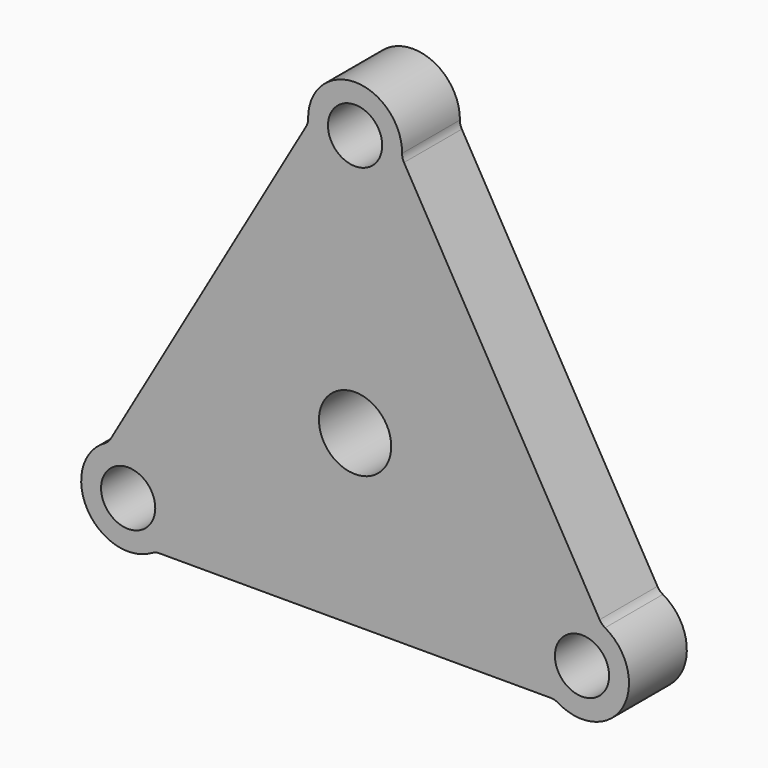
from build123d import *

# Parameters (mm, degrees)
F0_R     = 4.7625
F0_R_2   = 6.35
F1_DEPTH = 12.7


with BuildPart() as f1:
    # F0 (on Front) → F1 (new body)
    with BuildSketch(Plane.XZ):
        with BuildLine():
            ThreePointArc((8.594672, 44.651487), (8.337428, 45.27728), (8.254523, 45.948784))
            ThreePointArc((8.254523, 45.948784), (0, 54.2925), (-8.254523, 45.948784))
            ThreePointArc((-8.254523, 45.948784), (-8.337428, 45.27728), (-8.594672, 44.651487))
            Line((-8.594672, 44.651487), (-42.966658, -14.882539))
            ThreePointArc((-42.966658, -14.882539), (-43.379988, -15.418216), (-43.920076, -15.825765))
            ThreePointArc((-43.920076, -15.825765), (-47.018684, -27.14625), (-35.665553, -30.123019))
            ThreePointArc((-35.665553, -30.123019), (-35.042561, -29.859064), (-34.371986, -29.768948))
            Line((-34.371986, -29.768948), (34.371986, -29.768948))
            ThreePointArc((34.371986, -29.768948), (35.042561, -29.859064), (35.665553, -30.123019))
            ThreePointArc((35.665553, -30.123019), (47.018684, -27.14625), (43.920076, -15.825765))
            ThreePointArc((43.920076, -15.825765), (43.379988, -15.418216), (42.966658, -14.882539))
            Line((42.966658, -14.882539), (8.594672, 44.651487))
        make_face()
        with Locations((-39.869645, -23.01875)):
            Circle(F0_R, mode=Mode.SUBTRACT)
        with Locations((39.869645, -23.01875)):
            Circle(F0_R, mode=Mode.SUBTRACT)
        Circle(F0_R_2, mode=Mode.SUBTRACT)
        with Locations((0, 46.0375)):
            Circle(F0_R, mode=Mode.SUBTRACT)
    extrude(amount=F1_DEPTH)


solid = f1.part
